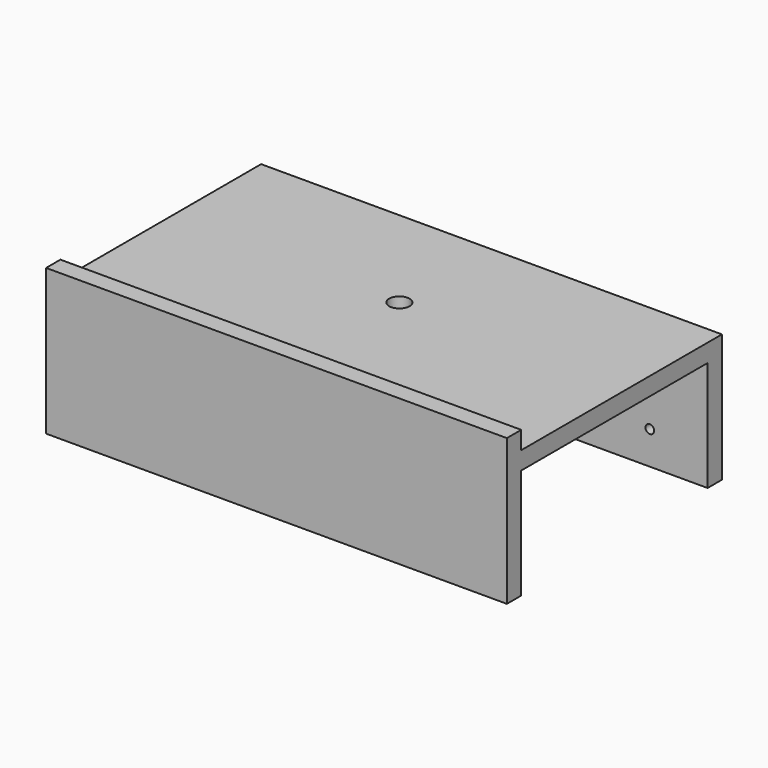
from build123d import *

# Parameters (mm, degrees)
F0_W          = 180
F0_H          = 105
F1_DEPTH      = 50
F2_W          = 180
F2_H          = 91
F3_DEPTH      = 1
F3_DEPTH_BACK = 43
F4_R          = 4
F5_DEPTH      = 50.001
F6_W          = 180
F6_H          = 7
F7_DEPTH      = 7
F8_R          = 1.7
F9_DEPTH      = 7


with BuildPart() as f1:
    # F0 (on Top) → F1 (new body)
    with BuildSketch(Plane.XY):
        Rectangle(F0_W, F0_H)
    extrude(amount=F1_DEPTH)

    # F2 (on face) → F3 (cut, two sides)
    with BuildSketch(Plane.XY) as f3_sk:
        Rectangle(F2_W, F2_H)
    extrude(amount=-F3_DEPTH, mode=Mode.SUBTRACT)
    extrude(f3_sk.sketch, amount=F3_DEPTH_BACK, mode=Mode.SUBTRACT)

    # F4 (on face) → F5 (cut, through all)
    with BuildSketch(Plane.XY.offset(50)):
        with Locations((0, 7.5)):
            Circle(F4_R)
    extrude(amount=-F5_DEPTH, mode=Mode.SUBTRACT)

    # F6 (on face) → F7 (join)
    with BuildSketch(Plane.XY.offset(50)):
        with Locations((0, -49)):
            Rectangle(F6_W, F6_H)
    extrude(amount=F7_DEPTH)

    # F8 (on face) → F9 (cut, through all)
    with BuildSketch(Plane(origin=(0, 52.5, 0), x_dir=(-1, 0, 0), z_dir=(0, 1, 0))):
        with Locations((-68.3, 36.3)):
            Circle(F8_R)
        with Locations((-67.4438270785, 12.9156683241)):
            Circle(F8_R)
        with Locations((-44.9, 36.3)):
            Circle(F8_R)
        with Locations((-44.0438270785, 12.9156683241)):
            Circle(F8_R)
        with Locations((44.9, 36.3)):
            Circle(F8_R)
        with Locations((45.7561729215, 12.9156683241)):
            Circle(F8_R)
        with Locations((68.3, 36.3)):
            Circle(F8_R)
        with Locations((69.1561729215, 12.9156683241)):
            Circle(F8_R)
    extrude(amount=-F9_DEPTH, mode=Mode.SUBTRACT)


solid = f1.part
